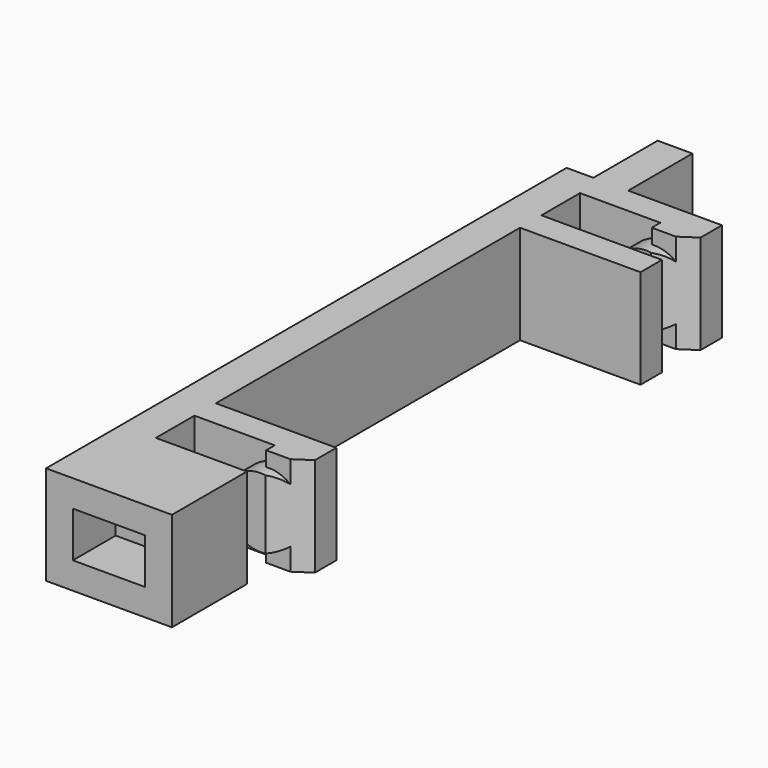
from build123d import *

# Parameters (mm, degrees)
PAD_DEPTH       = 3.7
SKETCH001_W     = 2.7
SKETCH001_H     = 1.7
POCKET_DEPTH    = 2
SKETCH002_R     = 1.3
PAD001_DEPTH    = 1
SKETCH003_W     = 1.5
SKETCH003_H     = 3.7
PAD002_DEPTH    = 0.4
POCKET001_DEPTH = 5
SKETCH005_R     = 1.3
PAD003_DEPTH    = 1
SKETCH006_W     = 1.5
SKETCH006_H     = 3.7
PAD004_DEPTH    = 0.4
POCKET002_DEPTH = 5
SKETCH008_W     = 4.7
SKETCH008_H     = 3.7
POCKET003_DEPTH = 0.4
SKETCH009_W     = 1.3
SKETCH009_H     = 3.7
POCKET004_DEPTH = 0.7
SKETCH010_W     = 2.5
SKETCH010_H     = 3.592296
POCKET005_DEPTH = 0.2
SKETCH011_W     = 2
SKETCH011_H     = 3.592296
POCKET006_DEPTH = 0.2
SKETCH012_W     = 3
SKETCH012_H     = 3.7
PAD005_DEPTH    = 1
SKETCH013_W     = 3
SKETCH013_H     = 3.7
POCKET007_DEPTH = 1
PAD006_DEPTH    = 0.4
SKETCH015_W     = 1
SKETCH015_H     = 3.7
PAD007_DEPTH    = 0.4


with BuildPart() as part:
    # Sketch → Pad (new body)
    with BuildSketch(Plane.XY):
        Polygon((0, 28), (0, 0), (4.7, 0), (4.7, 3.5), (1.3, 3.5), (1.3, 5.3), (5.8, 5.3), (5.8, 6.3), (1.3, 6.3), (1.3, 20.5), (5.8, 20.5), (5.8, 21.5), (1.3, 21.5), (1.3, 23.3), (5.8, 23.3), (5.8, 24.3), (1.3, 24.3), (1.3, 28), align=None)
    extrude(amount=PAD_DEPTH)

    # Sketch001 → Pocket (cut)
    with BuildSketch(Plane.XZ):
        with Locations((2.35, 1.85)):
            Rectangle(SKETCH001_W, SKETCH001_H)
    extrude(amount=-POCKET_DEPTH, mode=Mode.SUBTRACT)

    # Sketch002 → Pad001 (new body)
    with BuildSketch(Plane.XZ.offset(-5.3)):
        with Locations((4.4, 1.85)):
            Circle(SKETCH002_R)
    extrude(amount=PAD001_DEPTH)

    # Sketch003 → Pad002 (new body)
    with BuildSketch(Plane.XZ.offset(-5.3)):
        with Locations((5.05, 1.85)):
            Rectangle(SKETCH003_W, SKETCH003_H)
    extrude(amount=PAD002_DEPTH)

    # Sketch004 → Pocket001 (cut)
    with BuildSketch(Plane.XY.offset(3.7)):
        Polygon((5.8, 5.3), (4.3, 4.3), (5.8, 4.3), align=None)
    extrude(amount=-POCKET001_DEPTH, mode=Mode.SUBTRACT)

    # Sketch005 → Pad003 (new body)
    with BuildSketch(Plane.XZ.offset(-23.3)):
        with Locations((4.4, 1.85)):
            Circle(SKETCH005_R)
    extrude(amount=PAD003_DEPTH)

    # Sketch006 → Pad004 (new body)
    with BuildSketch(Plane.XZ.offset(-23.3)):
        with Locations((5.05, 1.85)):
            Rectangle(SKETCH006_W, SKETCH006_H)
    extrude(amount=PAD004_DEPTH)

    # Sketch007 → Pocket002 (cut)
    with BuildSketch(Plane.XY.offset(3.7)):
        Polygon((5.8, 23.3), (4.3, 22.3), (5.8, 22.3), align=None)
    extrude(amount=-POCKET002_DEPTH, mode=Mode.SUBTRACT)

    # Sketch008 → Pocket003 (cut)
    with BuildSketch(Plane.XZ):
        with Locations((2.35, 1.85)):
            Rectangle(SKETCH008_W, SKETCH008_H)
    extrude(amount=-POCKET003_DEPTH, mode=Mode.SUBTRACT)

    # Sketch009 → Pocket004 (cut)
    with BuildSketch(Plane(origin=(0, 28, 0), x_dir=(-1, 0, 0), z_dir=(0, 1, 0))):
        with Locations((-0.65, 1.85)):
            Rectangle(SKETCH009_W, SKETCH009_H)
    extrude(amount=-POCKET004_DEPTH, mode=Mode.SUBTRACT)

    # Sketch010 → Pocket005 (cut)
    with BuildSketch(Plane.XZ.offset(-4.3)):
        with Locations((4.05, 1.85)):
            Rectangle(SKETCH010_W, SKETCH010_H)
    extrude(amount=-POCKET005_DEPTH, mode=Mode.SUBTRACT)

    # Sketch011 → Pocket006 (cut)
    with BuildSketch(Plane.XZ.offset(-22.3)):
        with Locations((3.8, 1.85)):
            Rectangle(SKETCH011_W, SKETCH011_H)
    extrude(amount=-POCKET006_DEPTH, mode=Mode.SUBTRACT)

    # Sketch012 → Pad005 (new body)
    with BuildSketch(Plane.YZ.offset(1.3)):
        with Locations((25.8, 1.85)):
            Rectangle(SKETCH012_W, SKETCH012_H)
    extrude(amount=PAD005_DEPTH)

    # Sketch013 → Pocket007 (cut)
    with BuildSketch(Plane(origin=(0, 0, 0), x_dir=(0, -1, 0), z_dir=(-1, 0, 0))):
        with Locations((-25.8, 1.85)):
            Rectangle(SKETCH013_W, SKETCH013_H)
    extrude(amount=-POCKET007_DEPTH, mode=Mode.SUBTRACT)

    # Sketch014 → Pad006 (new body)
    with BuildSketch(Plane.XZ.offset(-0.4)):
        Polygon((3.7, 2.7), (3.7, 3.7), (0, 3.7), (0, 0), (3.7, 0), (3.7, 1), (1, 1), (1, 2.7), align=None)
    extrude(amount=PAD006_DEPTH)

    # Sketch015 → Pad007 (new body)
    with BuildSketch(Plane.XZ.offset(-0.4)):
        with Locations((4.2, 1.85)):
            Rectangle(SKETCH015_W, SKETCH015_H)
    extrude(amount=PAD007_DEPTH)


solid = part.part
